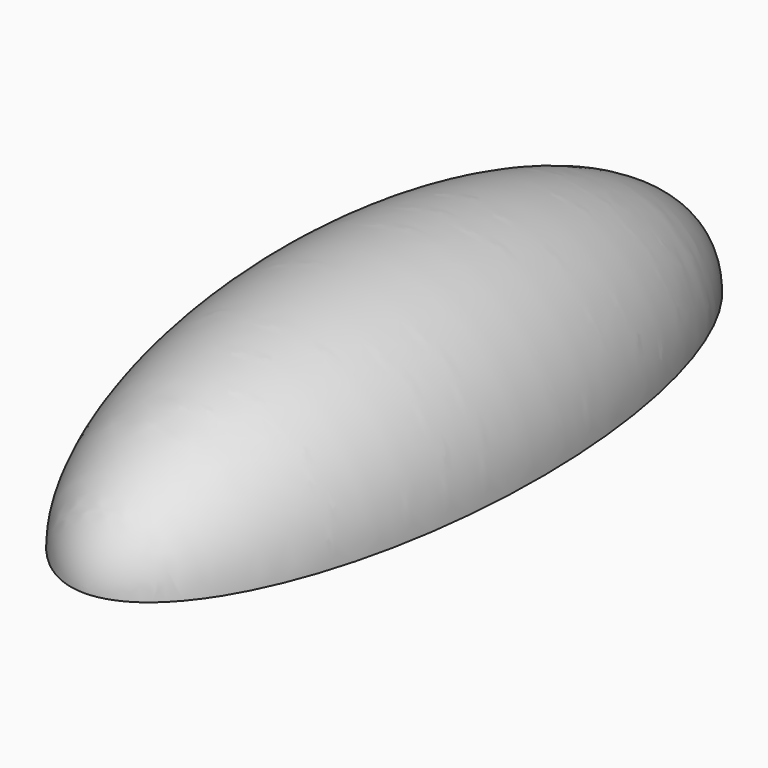
from build123d import *

# Parameters (mm, degrees)
F1_ANGLE = -180


with BuildPart() as f1:
    # F0 (on Top) → F1 (revolve)
    with BuildSketch(Plane.XY):
        with BuildLine():
            add(Edge.make_bspline(
                [(0, -56.77525), (23.651519, -56.77525), (23.651519, 0), (23.651519, 56.77525), (0, 56.77525)],
                knots=[3.141593, 3.141593, 3.141593, 4.712389, 4.712389, 6.283185, 6.283185, 6.283185], degree=2, weights=[1, 0.707107, 1, 0.707107, 1]))
            Line((0, 56.77525), (0, -56.77525))
        make_face()
    revolve(axis=Axis((0, 0, 0), (0, 1, 0)), revolution_arc=F1_ANGLE)


solid = f1.part
